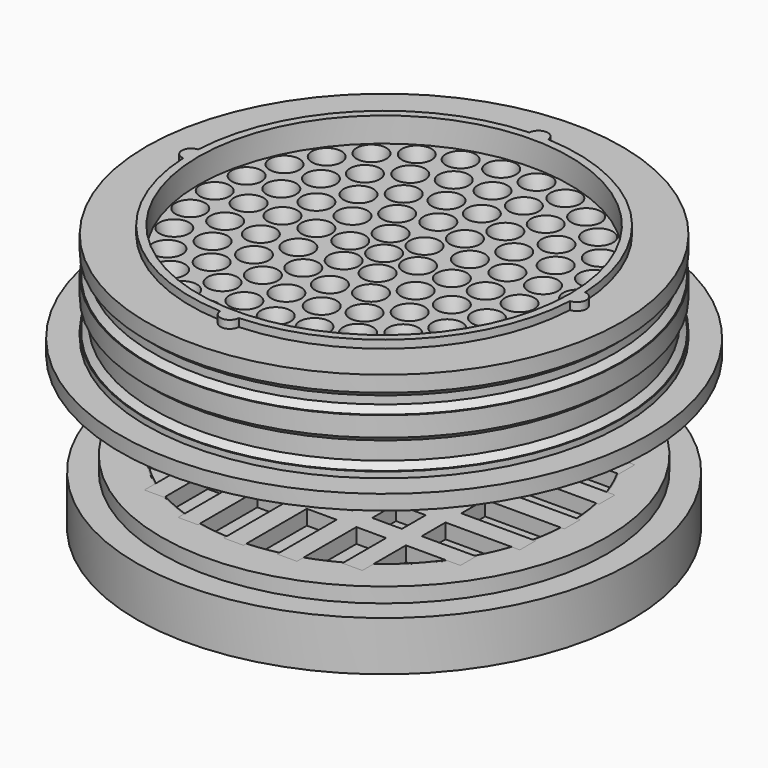
from build123d import *

# Parameters (mm, degrees)
CYLINDER072_R          = 47.3
CYLINDER072_DEPTH      = 3
CYLINDER071_R          = 53.3
CYLINDER071_DEPTH      = 3
CYLINDER073_R          = 2
CYLINDER073_DEPTH      = 7.8
CYLINDER058_R          = 2
CYLINDER058_DEPTH      = 7.8
CYLINDER057_R          = 2
CYLINDER057_DEPTH      = 7.8
CYLINDER054_R          = 2
CYLINDER054_DEPTH      = 7.8
CYLINDER056_R          = 37.6
CYLINDER056_DEPTH      = 13.4
CYLINDER055_R          = 40
CYLINDER055_DEPTH      = 13.4
CYLINDER019_R          = 68.3
CYLINDER019_DEPTH      = 5
CYLINDER009_R          = 40
CYLINDER009_DEPTH      = 27.4
CYLINDER008_R          = 45
CYLINDER008_DEPTH      = 23.4
CYLINDER005_R          = 45
CYLINDER005_DEPTH      = 25
CYLINDER_R             = 48
CYLINDER_DEPTH         = 3.2
CYLINDER003_R          = 46.6
CYLINDER003_DEPTH      = 6
CYLINDER001_R          = 46.6
CYLINDER001_DEPTH      = 4
CYLINDER002_R          = 48
CYLINDER002_DEPTH      = 4
CYLINDER004_R          = 48
CYLINDER004_DEPTH      = 1.2
CYLINDER007_R          = 45
CYLINDER007_DEPTH      = 25
CYLINDER006_R          = 51.3
CYLINDER006_DEPTH      = 5
CHAMFER_SIZE           = 1.2
CHAMFER001_SIZE        = 1.2
CYLINDER075_R          = 37.5
CYLINDER075_DEPTH      = 12
CYLINDER070_R          = 1.9
CYLINDER070_DEPTH      = 7.8
CYLINDER068_R          = 1.9
CYLINDER068_DEPTH      = 7.8
CYLINDER062_R          = 1.9
CYLINDER062_DEPTH      = 7.8
CYLINDER074_R          = 1.9
CYLINDER074_DEPTH      = 7.8
CYLINDER061_R          = 68.3
CYLINDER061_DEPTH      = 5
CYLINDER066_R          = 37.5
CYLINDER066_DEPTH      = 32
CYLINDER064_R          = 37.5
CYLINDER064_DEPTH      = 5
CYLINDER069_R          = 39.1
CYLINDER069_DEPTH      = 5
CYLINDER085_R          = 37.5
CYLINDER085_DEPTH      = 5
CYLINDER088_R          = 45
CYLINDER088_DEPTH      = 5
CYLINDER089_R          = 50
CYLINDER089_DEPTH      = 10
BOX037_W               = 66
BOX037_H               = 4
BOX037_DEPTH           = 5
BOX034_W               = 66
BOX034_H               = 4
BOX034_DEPTH           = 5
BOX036_W               = 74
BOX036_H               = 4
BOX036_DEPTH           = 5
BOX038_W               = 74
BOX038_H               = 4
BOX038_DEPTH           = 5
BOX035_W               = 74
BOX035_H               = 4
BOX035_DEPTH           = 5
BOX033_W               = 66
BOX033_H               = 4
BOX033_DEPTH           = 5
BOX039_W               = 76
BOX039_H               = 4
BOX039_DEPTH           = 5
BOX030_W               = 66
BOX030_H               = 4
BOX030_DEPTH           = 5
BOX031_W               = 76
BOX031_H               = 4
BOX031_DEPTH           = 5
BOX032_W               = 74
BOX032_H               = 4
BOX032_DEPTH           = 5
CYLINDER086_R          = 37.3
CYLINDER086_DEPTH      = 5
CYLINDER087_R          = 37.5
CYLINDER087_DEPTH      = 5
CYLINDER063_R          = 50
CYLINDER063_DEPTH      = 10
CYLINDER067_R          = 37.5
CYLINDER067_DEPTH      = 5
CYLINDER059_R          = 45
CYLINDER059_DEPTH      = 5
BOX024_W               = 66
BOX024_H               = 4
BOX024_DEPTH           = 5
BOX028_W               = 66
BOX028_H               = 4
BOX028_DEPTH           = 5
BOX022_W               = 74
BOX022_H               = 4
BOX022_DEPTH           = 5
BOX020_W               = 74
BOX020_H               = 4
BOX020_DEPTH           = 5
BOX025_W               = 74
BOX025_H               = 4
BOX025_DEPTH           = 5
BOX027_W               = 66
BOX027_H               = 4
BOX027_DEPTH           = 5
BOX026_W               = 76
BOX026_H               = 4
BOX026_DEPTH           = 5
BOX021_W               = 66
BOX021_H               = 4
BOX021_DEPTH           = 5
BOX029_W               = 76
BOX029_H               = 4
BOX029_DEPTH           = 5
BOX023_W               = 74
BOX023_H               = 4
BOX023_DEPTH           = 5
CYLINDER065_R          = 37.3
CYLINDER065_DEPTH      = 5
CYLINDER060_R          = 37.5
CYLINDER060_DEPTH      = 5
CYLINDER077_R          = 37.5
CYLINDER077_DEPTH      = 12
CYLINDER081_R          = 1.9
CYLINDER081_DEPTH      = 7.8
CYLINDER076_R          = 1.9
CYLINDER076_DEPTH      = 7.8
CYLINDER079_R          = 1.9
CYLINDER079_DEPTH      = 7.8
CYLINDER084_R          = 1.9
CYLINDER084_DEPTH      = 7.8
CYLINDER078_R          = 68.3
CYLINDER078_DEPTH      = 5
CYLINDER082_R          = 37.5
CYLINDER082_DEPTH      = 32
CYLINDER083_R          = 37.5
CYLINDER083_DEPTH      = 5
CYLINDER080_R          = 39.1
CYLINDER080_DEPTH      = 5
CYLINDER100_R          = 2.17
CYLINDER100_DEPTH      = 10
ARRAY_COUNT            = 6
CYLINDER103_R          = 2.17
CYLINDER103_DEPTH      = 10
ARRAY003_COUNT         = 24
CYLINDER102_R          = 2.17
CYLINDER102_DEPTH      = 10
ARRAY001_COUNT         = 12
CYLINDER101_R          = 2.17
CYLINDER101_DEPTH      = 10
ARRAY002_COUNT         = 18
CYLINDER099_R          = 2.17
CYLINDER099_DEPTH      = 10
CYLINDER104_R          = 2.17
CYLINDER104_DEPTH      = 10
ARRAY004_COUNT         = 30
CYLINDER105_R          = 38
CYLINDER105_DEPTH      = 3
CYLINDER094_R          = 37.5
CYLINDER094_DEPTH      = 12
CYLINDER091_R          = 1.9
CYLINDER091_DEPTH      = 7.8
CYLINDER096_R          = 1.9
CYLINDER096_DEPTH      = 7.8
CYLINDER098_R          = 1.9
CYLINDER098_DEPTH      = 7.8
CYLINDER097_R          = 1.9
CYLINDER097_DEPTH      = 7.8
CYLINDER095_R          = 68.3
CYLINDER095_DEPTH      = 5
CYLINDER090_R          = 37.5
CYLINDER090_DEPTH      = 32
CYLINDER092_R          = 37.5
CYLINDER092_DEPTH      = 5
CYLINDER093_R          = 39.1
CYLINDER093_DEPTH      = 5
CYLINDER115_R          = 37.5
CYLINDER115_DEPTH      = 12
CYLINDER109_R          = 1.9
CYLINDER109_DEPTH      = 7.8
CYLINDER112_R          = 1.9
CYLINDER112_DEPTH      = 7.8
CYLINDER110_R          = 1.9
CYLINDER110_DEPTH      = 7.8
CYLINDER114_R          = 1.9
CYLINDER114_DEPTH      = 7.8
CYLINDER111_R          = 68.3
CYLINDER111_DEPTH      = 5
CYLINDER107_R          = 37.5
CYLINDER107_DEPTH      = 32
CYLINDER108_R          = 37.5
CYLINDER108_DEPTH      = 5
CYLINDER113_R          = 39.1
CYLINDER113_DEPTH      = 5
ARRAY005_COUNT         = 6
ARRAY006_COUNT         = 12
ARRAY007_COUNT         = 18
ARRAY008_COUNT         = 24
ARRAY009_COUNT         = 30
CYLINDER106_R          = 38
CYLINDER106_DEPTH      = 3
CUT053_PLACEMENT_ANGLE = 180


with BuildPart() as cylinder072:
    # Cylinder072 → Cylinder072 (new body)
    with BuildSketch(Plane.XY):
        Circle(CYLINDER072_R)
    extrude(amount=CYLINDER072_DEPTH)


with BuildPart() as obj1:
    # Cylinder071 → Cylinder071 (new body)
    with BuildSketch(Plane.XY):
        Circle(CYLINDER071_R)
    extrude(amount=CYLINDER071_DEPTH)

    # Cut037: cut Cylinder072
    add(cylinder072.part, mode=Mode.SUBTRACT)


with BuildPart() as obj1_1:
    # Cut037 placement: moved
    add(obj1.part.moved(Location((0, 0, -18.2))))


with BuildPart() as cylinder073:
    # Cylinder073 → Cylinder073 (new body)
    with BuildSketch(Plane(origin=(0, -39.8, -18), x_dir=(1, 0, 0), z_dir=(0, 0, 1))):
        Circle(CYLINDER073_R)
    extrude(amount=CYLINDER073_DEPTH)


with BuildPart() as cylinder058:
    # Cylinder058 → Cylinder058 (new body)
    with BuildSketch(Plane(origin=(-39.8, 0, -18), x_dir=(1, 0, 0), z_dir=(0, 0, 1))):
        Circle(CYLINDER058_R)
    extrude(amount=CYLINDER058_DEPTH)


with BuildPart() as cylinder057:
    # Cylinder057 → Cylinder057 (new body)
    with BuildSketch(Plane(origin=(39.8, 0, -18), x_dir=(1, 0, 0), z_dir=(0, 0, 1))):
        Circle(CYLINDER057_R)
    extrude(amount=CYLINDER057_DEPTH)


with BuildPart() as cylinder054:
    # Cylinder054 → Cylinder054 (new body)
    with BuildSketch(Plane(origin=(0, 39.8, -18), x_dir=(1, 0, 0), z_dir=(0, 0, 1))):
        Circle(CYLINDER054_R)
    extrude(amount=CYLINDER054_DEPTH)


with BuildPart() as cylinder056:
    # Cylinder056 → Cylinder056 (new body)
    with BuildSketch(Plane.XY.offset(-10.2)):
        Circle(CYLINDER056_R)
    extrude(amount=CYLINDER056_DEPTH)


with BuildPart() as cut026:
    # Cylinder055 → Cylinder055 (new body)
    with BuildSketch(Plane.XY.offset(-10.2)):
        Circle(CYLINDER055_R)
    extrude(amount=CYLINDER055_DEPTH)

    # Cut026: cut Cylinder056
    add(cylinder056.part, mode=Mode.SUBTRACT)


with BuildPart() as obj2:
    # Cylinder019 → Cylinder019 (new body)
    with BuildSketch(Plane.XY.offset(-23.2)):
        Circle(CYLINDER019_R)
    extrude(amount=CYLINDER019_DEPTH)


with BuildPart() as cone:
    # Cone → Cone (revolve)
    with BuildSketch(Plane(origin=(0, 0, -15.2), x_dir=(-1, 0, 0), z_dir=(0, -1, 0))):
        Polygon((0, 0), (40, 0), (45, 5), (0, 5), align=None)
    revolve(axis=Axis((0, 0, -15.2), (0, 0, -1)))


with BuildPart() as fusion002:
    # Cylinder009 → Cylinder009 (new body)
    with BuildSketch(Plane.XY.offset(-17)):
        Circle(CYLINDER009_R)
    extrude(amount=CYLINDER009_DEPTH)

    # Fusion002: union Cone
    add(cone.part)


with BuildPart() as cut002:
    # Cylinder008 → Cylinder008 (new body)
    with BuildSketch(Plane.XY.offset(-20.2)):
        Circle(CYLINDER008_R)
    extrude(amount=CYLINDER008_DEPTH)

    # Cut002: cut Fusion002
    add(fusion002.part, mode=Mode.SUBTRACT)


with BuildPart() as cylinder005:
    # Cylinder005 → Cylinder005 (new body)
    with BuildSketch(Plane.XY.offset(-18)):
        Circle(CYLINDER005_R)
    extrude(amount=CYLINDER005_DEPTH)


with BuildPart() as cylinder:
    # Cylinder → Cylinder (new body)
    with BuildSketch(Plane.XY):
        Circle(CYLINDER_R)
    extrude(amount=CYLINDER_DEPTH)


with BuildPart() as cylinder003:
    # Cylinder003 → Cylinder003 (new body)
    with BuildSketch(Plane.XY.offset(-14)):
        Circle(CYLINDER003_R)
    extrude(amount=CYLINDER003_DEPTH)


with BuildPart() as cylinder001:
    # Cylinder001 → Cylinder001 (new body)
    with BuildSketch(Plane.XY.offset(-4)):
        Circle(CYLINDER001_R)
    extrude(amount=CYLINDER001_DEPTH)


with BuildPart() as cylinder002:
    # Cylinder002 → Cylinder002 (new body)
    with BuildSketch(Plane.XY.offset(-8)):
        Circle(CYLINDER002_R)
    extrude(amount=CYLINDER002_DEPTH)


with BuildPart() as cut:
    # Cylinder004 → Cylinder004 (new body)
    with BuildSketch(Plane.XY.offset(-15.2)):
        Circle(CYLINDER004_R)
    extrude(amount=CYLINDER004_DEPTH)

    # Fusion: union Cylinder, Cylinder003, Cylinder001, Cylinder002
    add(cylinder.part)
    add(cylinder003.part)
    add(cylinder001.part)
    add(cylinder002.part)

    # Cut: cut Cylinder005
    add(cylinder005.part, mode=Mode.SUBTRACT)


with BuildPart() as cylinder007:
    # Cylinder007 → Cylinder007 (new body)
    with BuildSketch(Plane.XY.offset(-23)):
        Circle(CYLINDER007_R)
    extrude(amount=CYLINDER007_DEPTH)


with BuildPart() as obj3:
    # Cylinder006 → Cylinder006 (new body)
    with BuildSketch(Plane.XY.offset(-20.2)):
        Circle(CYLINDER006_R)
    extrude(amount=CYLINDER006_DEPTH)

    # Cut001: cut Cylinder007
    add(cylinder007.part, mode=Mode.SUBTRACT)

    # Fusion001: union Cut
    add(cut.part)

    # Fusion003: union Cut002
    add(cut002.part)

    # Chamfer
    chamfer_edges = [obj3.edges().sort_by_distance(p)[0] for p in [
        (-46.6, 0, -14),
        (-46.6, 0, -4),
    ]]
    chamfer(chamfer_edges, length=CHAMFER_SIZE)

    # Chamfer001
    chamfer001_edges = [obj3.edges().sort_by_distance(p)[0] for p in [
        (-46.6, 0, -8),
        (-46.6, 0, 0),
    ]]
    chamfer(chamfer001_edges, length=CHAMFER001_SIZE)

    # Cut009: cut obj2
    add(obj2.part, mode=Mode.SUBTRACT)

    # Fusion019: union Cut026
    add(cut026.part)

    # Cut027: cut Cylinder054
    add(cylinder054.part, mode=Mode.SUBTRACT)

    # Cut028: cut Cylinder057
    add(cylinder057.part, mode=Mode.SUBTRACT)

    # Cut029: cut Cylinder058
    add(cylinder058.part, mode=Mode.SUBTRACT)

    # Cut038: cut Cylinder073
    add(cylinder073.part, mode=Mode.SUBTRACT)

    # Fusion025: union obj1
    add(obj1_1.part)


with BuildPart() as cylinder075:
    # Cylinder075 → Cylinder075 (new body)
    with BuildSketch(Plane.XY.offset(-20)):
        Circle(CYLINDER075_R)
    extrude(amount=CYLINDER075_DEPTH)


with BuildPart() as cylinder070:
    # Cylinder070 → Cylinder070 (new body)
    with BuildSketch(Plane(origin=(38.95, 0, -18), x_dir=(1, 0, 0), z_dir=(0, 0, 1))):
        Circle(CYLINDER070_R)
    extrude(amount=CYLINDER070_DEPTH)


with BuildPart() as cylinder068:
    # Cylinder068 → Cylinder068 (new body)
    with BuildSketch(Plane(origin=(-38.95, 0, -18), x_dir=(1, 0, 0), z_dir=(0, 0, 1))):
        Circle(CYLINDER068_R)
    extrude(amount=CYLINDER068_DEPTH)


with BuildPart() as cylinder062:
    # Cylinder062 → Cylinder062 (new body)
    with BuildSketch(Plane(origin=(0, 38.95, -18), x_dir=(1, 0, 0), z_dir=(0, 0, 1))):
        Circle(CYLINDER062_R)
    extrude(amount=CYLINDER062_DEPTH)


with BuildPart() as cylinder074:
    # Cylinder074 → Cylinder074 (new body)
    with BuildSketch(Plane(origin=(0, -38.95, -18), x_dir=(1, 0, 0), z_dir=(0, 0, 1))):
        Circle(CYLINDER074_R)
    extrude(amount=CYLINDER074_DEPTH)


with BuildPart() as obj4:
    # Cylinder061 → Cylinder061 (new body)
    with BuildSketch(Plane.XY.offset(-23.2)):
        Circle(CYLINDER061_R)
    extrude(amount=CYLINDER061_DEPTH)


with BuildPart() as cylinder066:
    # Cylinder066 → Cylinder066 (new body)
    with BuildSketch(Plane.XY.offset(-39)):
        Circle(CYLINDER066_R)
    extrude(amount=CYLINDER066_DEPTH)


with BuildPart() as cono_superior:
    # Cone004 → Cone004 (revolve)
    with BuildSketch(Plane(origin=(0, 0, -15.2), x_dir=(-1, 0, 0), z_dir=(0, -1, 0))):
        Polygon((0, 0), (39.1, 0), (44, 5), (0, 5), align=None)
    revolve(axis=Axis((0, 0, -15.2), (0, 0, -1)))

    # Cut030: cut Cylinder066
    add(cylinder066.part, mode=Mode.SUBTRACT)


with BuildPart() as cylinder064:
    # Cylinder064 → Cylinder064 (new body)
    with BuildSketch(Plane.XY):
        Circle(CYLINDER064_R)
    extrude(amount=CYLINDER064_DEPTH)


with BuildPart() as obj5:
    # Cylinder069 → Cylinder069 (new body)
    with BuildSketch(Plane.XY):
        Circle(CYLINDER069_R)
    extrude(amount=CYLINDER069_DEPTH)

    # Cut033: cut Cylinder064
    add(cylinder064.part, mode=Mode.SUBTRACT)


with BuildPart() as obj5_1:
    # Cut033 placement: moved
    add(obj5.part.moved(Location((0, 0, -15.2))))

    # Fusion020: union cono_superior
    add(cono_superior.part)

    # Cut031: cut obj4
    add(obj4.part, mode=Mode.SUBTRACT)

    # Fusion026: union Cylinder070, Cylinder068, Cylinder062, Cylinder074
    add(cylinder070.part)
    add(cylinder068.part)
    add(cylinder062.part)
    add(cylinder074.part)

    # Cut039: cut Cylinder075
    add(cylinder075.part, mode=Mode.SUBTRACT)


with BuildPart() as cylinder085:
    # Cylinder085 → Cylinder085 (new body)
    with BuildSketch(Plane.XY.offset(-41)):
        Circle(CYLINDER085_R)
    extrude(amount=CYLINDER085_DEPTH)


with BuildPart() as cut047:
    # Cylinder088 → Cylinder088 (new body)
    with BuildSketch(Plane.XY.offset(-41)):
        Circle(CYLINDER088_R)
    extrude(amount=CYLINDER088_DEPTH)

    # Cut047: cut Cylinder085
    add(cylinder085.part, mode=Mode.SUBTRACT)


with BuildPart() as cylinder089:
    # Cylinder089 → Cylinder089 (new body)
    with BuildSketch(Plane.XY.offset(-49)):
        Circle(CYLINDER089_R)
    extrude(amount=CYLINDER089_DEPTH)


with BuildPart() as cube037:
    # Box037 → Box037 (new body)
    with BuildSketch(Plane(origin=(-18, -33, -41), x_dir=(0, 1, 0), z_dir=(0, 0, 1))):
        with Locations((33, 2)):
            Rectangle(BOX037_W, BOX037_H)
    extrude(amount=BOX037_DEPTH)


with BuildPart() as cube034:
    # Box034 → Box034 (new body)
    with BuildSketch(Plane(origin=(22, -33, -41), x_dir=(0, 1, 0), z_dir=(0, 0, 1))):
        with Locations((33, 2)):
            Rectangle(BOX034_W, BOX034_H)
    extrude(amount=BOX034_DEPTH)


with BuildPart() as cube036:
    # Box036 → Box036 (new body)
    with BuildSketch(Plane(origin=(-8, -37, -41), x_dir=(0, 1, 0), z_dir=(0, 0, 1))):
        with Locations((37, 2)):
            Rectangle(BOX036_W, BOX036_H)
    extrude(amount=BOX036_DEPTH)


with BuildPart() as cube038:
    # Box038 → Box038 (new body)
    with BuildSketch(Plane(origin=(-37, 8, -41), x_dir=(1, 0, 0), z_dir=(0, 0, 1))):
        with Locations((37, 2)):
            Rectangle(BOX038_W, BOX038_H)
    extrude(amount=BOX038_DEPTH)


with BuildPart() as cube035:
    # Box035 → Box035 (new body)
    with BuildSketch(Plane(origin=(-37, -12, -41), x_dir=(1, 0, 0), z_dir=(0, 0, 1))):
        with Locations((37, 2)):
            Rectangle(BOX035_W, BOX035_H)
    extrude(amount=BOX035_DEPTH)


with BuildPart() as cube033:
    # Box033 → Box033 (new body)
    with BuildSketch(Plane(origin=(-33, -22, -41), x_dir=(1, 0, 0), z_dir=(0, 0, 1))):
        with Locations((33, 2)):
            Rectangle(BOX033_W, BOX033_H)
    extrude(amount=BOX033_DEPTH)


with BuildPart() as cube039:
    # Box039 → Box039 (new body)
    with BuildSketch(Plane(origin=(-38, -2, -41), x_dir=(1, 0, 0), z_dir=(0, 0, 1))):
        with Locations((38, 2)):
            Rectangle(BOX039_W, BOX039_H)
    extrude(amount=BOX039_DEPTH)


with BuildPart() as cube030:
    # Box030 → Box030 (new body)
    with BuildSketch(Plane(origin=(-33, 18, -41), x_dir=(1, 0, 0), z_dir=(0, 0, 1))):
        with Locations((33, 2)):
            Rectangle(BOX030_W, BOX030_H)
    extrude(amount=BOX030_DEPTH)


with BuildPart() as cube031:
    # Box031 → Box031 (new body)
    with BuildSketch(Plane(origin=(2, -38, -41), x_dir=(0, 1, 0), z_dir=(0, 0, 1))):
        with Locations((38, 2)):
            Rectangle(BOX031_W, BOX031_H)
    extrude(amount=BOX031_DEPTH)


with BuildPart() as cube032:
    # Box032 → Box032 (new body)
    with BuildSketch(Plane(origin=(12, -37, -41), x_dir=(0, 1, 0), z_dir=(0, 0, 1))):
        with Locations((37, 2)):
            Rectangle(BOX032_W, BOX032_H)
    extrude(amount=BOX032_DEPTH)


with BuildPart() as cylinder086:
    # Cylinder086 → Cylinder086 (new body)
    with BuildSketch(Plane.XY.offset(-41)):
        Circle(CYLINDER086_R)
    extrude(amount=CYLINDER086_DEPTH)


with BuildPart() as fusion029:
    # Cylinder087 → Cylinder087 (new body)
    with BuildSketch(Plane.XY.offset(-41)):
        Circle(CYLINDER087_R)
    extrude(amount=CYLINDER087_DEPTH)

    # Cut044: cut Cylinder086
    add(cylinder086.part, mode=Mode.SUBTRACT)

    # Fusion029: union Cube037, Cube034, Cube036, Cube038, Cube035, Cube033, Cube039, Cube030, Cube031, Cube032
    add(cube037.part)
    add(cube034.part)
    add(cube036.part)
    add(cube038.part)
    add(cube035.part)
    add(cube033.part)
    add(cube039.part)
    add(cube030.part)
    add(cube031.part)
    add(cube032.part)


with BuildPart() as cylinder063:
    # Cylinder063 → Cylinder063 (new body)
    with BuildSketch(Plane.XY.offset(-49)):
        Circle(CYLINDER063_R)
    extrude(amount=CYLINDER063_DEPTH)


with BuildPart() as cylinder067:
    # Cylinder067 → Cylinder067 (new body)
    with BuildSketch(Plane.XY.offset(-41)):
        Circle(CYLINDER067_R)
    extrude(amount=CYLINDER067_DEPTH)


with BuildPart() as cut032:
    # Cylinder059 → Cylinder059 (new body)
    with BuildSketch(Plane.XY.offset(-41)):
        Circle(CYLINDER059_R)
    extrude(amount=CYLINDER059_DEPTH)

    # Cut032: cut Cylinder067
    add(cylinder067.part, mode=Mode.SUBTRACT)


with BuildPart() as cube024:
    # Box024 → Box024 (new body)
    with BuildSketch(Plane(origin=(-18, -33, -41), x_dir=(0, 1, 0), z_dir=(0, 0, 1))):
        with Locations((33, 2)):
            Rectangle(BOX024_W, BOX024_H)
    extrude(amount=BOX024_DEPTH)


with BuildPart() as cube028:
    # Box028 → Box028 (new body)
    with BuildSketch(Plane(origin=(22, -33, -41), x_dir=(0, 1, 0), z_dir=(0, 0, 1))):
        with Locations((33, 2)):
            Rectangle(BOX028_W, BOX028_H)
    extrude(amount=BOX028_DEPTH)


with BuildPart() as cube022:
    # Box022 → Box022 (new body)
    with BuildSketch(Plane(origin=(-8, -37, -41), x_dir=(0, 1, 0), z_dir=(0, 0, 1))):
        with Locations((37, 2)):
            Rectangle(BOX022_W, BOX022_H)
    extrude(amount=BOX022_DEPTH)


with BuildPart() as cube020:
    # Box020 → Box020 (new body)
    with BuildSketch(Plane(origin=(-37, 8, -41), x_dir=(1, 0, 0), z_dir=(0, 0, 1))):
        with Locations((37, 2)):
            Rectangle(BOX020_W, BOX020_H)
    extrude(amount=BOX020_DEPTH)


with BuildPart() as cube025:
    # Box025 → Box025 (new body)
    with BuildSketch(Plane(origin=(-37, -12, -41), x_dir=(1, 0, 0), z_dir=(0, 0, 1))):
        with Locations((37, 2)):
            Rectangle(BOX025_W, BOX025_H)
    extrude(amount=BOX025_DEPTH)


with BuildPart() as cube027:
    # Box027 → Box027 (new body)
    with BuildSketch(Plane(origin=(-33, -22, -41), x_dir=(1, 0, 0), z_dir=(0, 0, 1))):
        with Locations((33, 2)):
            Rectangle(BOX027_W, BOX027_H)
    extrude(amount=BOX027_DEPTH)


with BuildPart() as cube026:
    # Box026 → Box026 (new body)
    with BuildSketch(Plane(origin=(-38, -2, -41), x_dir=(1, 0, 0), z_dir=(0, 0, 1))):
        with Locations((38, 2)):
            Rectangle(BOX026_W, BOX026_H)
    extrude(amount=BOX026_DEPTH)


with BuildPart() as cube021:
    # Box021 → Box021 (new body)
    with BuildSketch(Plane(origin=(-33, 18, -41), x_dir=(1, 0, 0), z_dir=(0, 0, 1))):
        with Locations((33, 2)):
            Rectangle(BOX021_W, BOX021_H)
    extrude(amount=BOX021_DEPTH)


with BuildPart() as cube029:
    # Box029 → Box029 (new body)
    with BuildSketch(Plane(origin=(2, -38, -41), x_dir=(0, 1, 0), z_dir=(0, 0, 1))):
        with Locations((38, 2)):
            Rectangle(BOX029_W, BOX029_H)
    extrude(amount=BOX029_DEPTH)


with BuildPart() as cube023:
    # Box023 → Box023 (new body)
    with BuildSketch(Plane(origin=(12, -37, -41), x_dir=(0, 1, 0), z_dir=(0, 0, 1))):
        with Locations((37, 2)):
            Rectangle(BOX023_W, BOX023_H)
    extrude(amount=BOX023_DEPTH)


with BuildPart() as cylinder065:
    # Cylinder065 → Cylinder065 (new body)
    with BuildSketch(Plane.XY.offset(-41)):
        Circle(CYLINDER065_R)
    extrude(amount=CYLINDER065_DEPTH)


with BuildPart() as obj6:
    # Cylinder060 → Cylinder060 (new body)
    with BuildSketch(Plane.XY.offset(-41)):
        Circle(CYLINDER060_R)
    extrude(amount=CYLINDER060_DEPTH)

    # Cut035: cut Cylinder065
    add(cylinder065.part, mode=Mode.SUBTRACT)

    # Fusion022: union Cube024, Cube028, Cube022, Cube020, Cube025, Cube027, Cube026, Cube021, Cube029, Cube023
    add(cube024.part)
    add(cube028.part)
    add(cube022.part)
    add(cube020.part)
    add(cube025.part)
    add(cube027.part)
    add(cube026.part)
    add(cube021.part)
    add(cube029.part)
    add(cube023.part)

    # Cut036: cut Cut032
    add(cut032.part, mode=Mode.SUBTRACT)

    # Cut034: cut Cylinder063
    add(cylinder063.part, mode=Mode.SUBTRACT)


with BuildPart() as obj6_1:
    # Cut034 placement: moved
    add(obj6.part.moved(Location((0, 0, 20.8))))


with BuildPart() as cylinder077:
    # Cylinder077 → Cylinder077 (new body)
    with BuildSketch(Plane.XY.offset(-20)):
        Circle(CYLINDER077_R)
    extrude(amount=CYLINDER077_DEPTH)


with BuildPart() as cylinder081:
    # Cylinder081 → Cylinder081 (new body)
    with BuildSketch(Plane(origin=(38.95, 0, -18), x_dir=(1, 0, 0), z_dir=(0, 0, 1))):
        Circle(CYLINDER081_R)
    extrude(amount=CYLINDER081_DEPTH)


with BuildPart() as cylinder076:
    # Cylinder076 → Cylinder076 (new body)
    with BuildSketch(Plane(origin=(-38.95, 0, -18), x_dir=(1, 0, 0), z_dir=(0, 0, 1))):
        Circle(CYLINDER076_R)
    extrude(amount=CYLINDER076_DEPTH)


with BuildPart() as cylinder079:
    # Cylinder079 → Cylinder079 (new body)
    with BuildSketch(Plane(origin=(0, 38.95, -18), x_dir=(1, 0, 0), z_dir=(0, 0, 1))):
        Circle(CYLINDER079_R)
    extrude(amount=CYLINDER079_DEPTH)


with BuildPart() as cylinder084:
    # Cylinder084 → Cylinder084 (new body)
    with BuildSketch(Plane(origin=(0, -38.95, -18), x_dir=(1, 0, 0), z_dir=(0, 0, 1))):
        Circle(CYLINDER084_R)
    extrude(amount=CYLINDER084_DEPTH)


with BuildPart() as obj7:
    # Cylinder078 → Cylinder078 (new body)
    with BuildSketch(Plane.XY.offset(-23.2)):
        Circle(CYLINDER078_R)
    extrude(amount=CYLINDER078_DEPTH)


with BuildPart() as cylinder082:
    # Cylinder082 → Cylinder082 (new body)
    with BuildSketch(Plane.XY.offset(-39)):
        Circle(CYLINDER082_R)
    extrude(amount=CYLINDER082_DEPTH)


with BuildPart() as cono_superior001:
    # Cone005 → Cone005 (revolve)
    with BuildSketch(Plane(origin=(0, 0, -15.2), x_dir=(-1, 0, 0), z_dir=(0, -1, 0))):
        Polygon((0, 0), (39.1, 0), (44, 5), (0, 5), align=None)
    revolve(axis=Axis((0, 0, -15.2), (0, 0, -1)))

    # Cut042: cut Cylinder082
    add(cylinder082.part, mode=Mode.SUBTRACT)


with BuildPart() as cylinder083:
    # Cylinder083 → Cylinder083 (new body)
    with BuildSketch(Plane.XY):
        Circle(CYLINDER083_R)
    extrude(amount=CYLINDER083_DEPTH)


with BuildPart() as obj8:
    # Cylinder080 → Cylinder080 (new body)
    with BuildSketch(Plane.XY):
        Circle(CYLINDER080_R)
    extrude(amount=CYLINDER080_DEPTH)

    # Cut040: cut Cylinder083
    add(cylinder083.part, mode=Mode.SUBTRACT)


with BuildPart() as obj8_1:
    # Cut040 placement: moved
    add(obj8.part.moved(Location((0, 0, -15.2))))

    # Fusion027: union cono_superior001
    add(cono_superior001.part)

    # Cut041: cut obj7
    add(obj7.part, mode=Mode.SUBTRACT)

    # Fusion028: union Cylinder081, Cylinder076, Cylinder079, Cylinder084
    add(cylinder081.part)
    add(cylinder076.part)
    add(cylinder079.part)
    add(cylinder084.part)

    # Cut043: cut Cylinder077
    add(cylinder077.part, mode=Mode.SUBTRACT)

    # Fusion030: union obj6
    add(obj6_1.part)


with BuildPart() as array:
    # Cylinder100 → Cylinder100 (new body)
    with BuildSketch(Plane(origin=(-6.84, 0, -44), x_dir=(1, 0, 0), z_dir=(0, 0, 1))):
        Circle(CYLINDER100_R)
    extrude(amount=CYLINDER100_DEPTH)

    # Array: Array ×6 about axis
    array_axis = Axis((0, 0, 0), (0, 0, 1))


with BuildPart() as array_1:
    add(array.part)
    for i in range(1, ARRAY_COUNT):
        add(array.part.rotate(array_axis, i * 360 / ARRAY_COUNT))


with BuildPart() as array003:
    # Cylinder103 → Cylinder103 (new body)
    with BuildSketch(Plane(origin=(-27.36, 0, -44), x_dir=(1, 0, 0), z_dir=(0, 0, 1))):
        Circle(CYLINDER103_R)
    extrude(amount=CYLINDER103_DEPTH)

    # Array003: Array003 ×24 about axis
    array003_axis = Axis((0, 0, 0), (0, 0, 1))


with BuildPart() as array003_1:
    add(array003.part)
    for i in range(1, ARRAY003_COUNT):
        add(array003.part.rotate(array003_axis, i * 360 / ARRAY003_COUNT))


with BuildPart() as array001:
    # Cylinder102 → Cylinder102 (new body)
    with BuildSketch(Plane(origin=(-13.68, 0, -44), x_dir=(1, 0, 0), z_dir=(0, 0, 1))):
        Circle(CYLINDER102_R)
    extrude(amount=CYLINDER102_DEPTH)

    # Array001: Array001 ×12 about axis
    array001_axis = Axis((0, 0, 0), (0, 0, 1))


with BuildPart() as array001_1:
    add(array001.part)
    for i in range(1, ARRAY001_COUNT):
        add(array001.part.rotate(array001_axis, i * 360 / ARRAY001_COUNT))


with BuildPart() as array002:
    # Cylinder101 → Cylinder101 (new body)
    with BuildSketch(Plane(origin=(-20.52, 0, -44), x_dir=(1, 0, 0), z_dir=(0, 0, 1))):
        Circle(CYLINDER101_R)
    extrude(amount=CYLINDER101_DEPTH)

    # Array002: Array002 ×18 about axis
    array002_axis = Axis((0, 0, 0), (0, 0, 1))


with BuildPart() as array002_1:
    add(array002.part)
    for i in range(1, ARRAY002_COUNT):
        add(array002.part.rotate(array002_axis, i * 360 / ARRAY002_COUNT))


with BuildPart() as cylinder099:
    # Cylinder099 → Cylinder099 (new body)
    with BuildSketch(Plane.XY.offset(-44)):
        Circle(CYLINDER099_R)
    extrude(amount=CYLINDER099_DEPTH)


with BuildPart() as fusion033:
    # Cylinder104 → Cylinder104 (new body)
    with BuildSketch(Plane(origin=(-34.2, 0, -44), x_dir=(1, 0, 0), z_dir=(0, 0, 1))):
        Circle(CYLINDER104_R)
    extrude(amount=CYLINDER104_DEPTH)

    # Array004: Fusion033 ×30 about axis
    array004_axis = Axis((0, 0, 0), (0, 0, 1))


with BuildPart() as fusion033_1:
    add(fusion033.part)
    for i in range(1, ARRAY004_COUNT):
        add(fusion033.part.rotate(array004_axis, i * 360 / ARRAY004_COUNT))

    # Fusion033: union Array, Array003, Array001, Array002, Cylinder099
    add(array_1.part)
    add(array003_1.part)
    add(array001_1.part)
    add(array002_1.part)
    add(cylinder099.part)


with BuildPart() as obj9:
    # Cylinder105 → Cylinder105 (new body)
    with BuildSketch(Plane.XY.offset(-41)):
        Circle(CYLINDER105_R)
    extrude(amount=CYLINDER105_DEPTH)

    # Cut052: cut Fusion033
    add(fusion033_1.part, mode=Mode.SUBTRACT)


with BuildPart() as obj9_1:
    # Cut052 placement: moved
    add(obj9.part.moved(Location((0, 0, 22.8))))


with BuildPart() as cylinder094:
    # Cylinder094 → Cylinder094 (new body)
    with BuildSketch(Plane.XY.offset(-20)):
        Circle(CYLINDER094_R)
    extrude(amount=CYLINDER094_DEPTH)


with BuildPart() as cylinder091:
    # Cylinder091 → Cylinder091 (new body)
    with BuildSketch(Plane(origin=(38.95, 0, -18), x_dir=(1, 0, 0), z_dir=(0, 0, 1))):
        Circle(CYLINDER091_R)
    extrude(amount=CYLINDER091_DEPTH)


with BuildPart() as cylinder096:
    # Cylinder096 → Cylinder096 (new body)
    with BuildSketch(Plane(origin=(-38.95, 0, -18), x_dir=(1, 0, 0), z_dir=(0, 0, 1))):
        Circle(CYLINDER096_R)
    extrude(amount=CYLINDER096_DEPTH)


with BuildPart() as cylinder098:
    # Cylinder098 → Cylinder098 (new body)
    with BuildSketch(Plane(origin=(0, 38.95, -18), x_dir=(1, 0, 0), z_dir=(0, 0, 1))):
        Circle(CYLINDER098_R)
    extrude(amount=CYLINDER098_DEPTH)


with BuildPart() as cylinder097:
    # Cylinder097 → Cylinder097 (new body)
    with BuildSketch(Plane(origin=(0, -38.95, -18), x_dir=(1, 0, 0), z_dir=(0, 0, 1))):
        Circle(CYLINDER097_R)
    extrude(amount=CYLINDER097_DEPTH)


with BuildPart() as obj10:
    # Cylinder095 → Cylinder095 (new body)
    with BuildSketch(Plane.XY.offset(-23.2)):
        Circle(CYLINDER095_R)
    extrude(amount=CYLINDER095_DEPTH)


with BuildPart() as cylinder090:
    # Cylinder090 → Cylinder090 (new body)
    with BuildSketch(Plane.XY.offset(-39)):
        Circle(CYLINDER090_R)
    extrude(amount=CYLINDER090_DEPTH)


with BuildPart() as cono_superior002:
    # Cone006 → Cone006 (revolve)
    with BuildSketch(Plane(origin=(0, 0, -15.2), x_dir=(-1, 0, 0), z_dir=(0, -1, 0))):
        Polygon((0, 0), (39.1, 0), (44, 5), (0, 5), align=None)
    revolve(axis=Axis((0, 0, -15.2), (0, 0, -1)))

    # Cut050: cut Cylinder090
    add(cylinder090.part, mode=Mode.SUBTRACT)


with BuildPart() as cylinder092:
    # Cylinder092 → Cylinder092 (new body)
    with BuildSketch(Plane.XY):
        Circle(CYLINDER092_R)
    extrude(amount=CYLINDER092_DEPTH)


with BuildPart() as obj11:
    # Cylinder093 → Cylinder093 (new body)
    with BuildSketch(Plane.XY):
        Circle(CYLINDER093_R)
    extrude(amount=CYLINDER093_DEPTH)

    # Cut049: cut Cylinder092
    add(cylinder092.part, mode=Mode.SUBTRACT)


with BuildPart() as obj11_1:
    # Cut049 placement: moved
    add(obj11.part.moved(Location((0, 0, -15.2))))

    # Fusion032: union cono_superior002
    add(cono_superior002.part)

    # Cut051: cut obj10
    add(obj10.part, mode=Mode.SUBTRACT)

    # Fusion031: union Cylinder091, Cylinder096, Cylinder098, Cylinder097
    add(cylinder091.part)
    add(cylinder096.part)
    add(cylinder098.part)
    add(cylinder097.part)

    # Cut048: cut Cylinder094
    add(cylinder094.part, mode=Mode.SUBTRACT)

    # Fusion034: union obj9
    add(obj9_1.part)


with BuildPart() as cylinder115:
    # Cylinder115 → Cylinder115 (new body)
    with BuildSketch(Plane.XY.offset(-20)):
        Circle(CYLINDER115_R)
    extrude(amount=CYLINDER115_DEPTH)


with BuildPart() as cylinder109:
    # Cylinder109 → Cylinder109 (new body)
    with BuildSketch(Plane(origin=(38.95, 0, -18), x_dir=(1, 0, 0), z_dir=(0, 0, 1))):
        Circle(CYLINDER109_R)
    extrude(amount=CYLINDER109_DEPTH)


with BuildPart() as cylinder112:
    # Cylinder112 → Cylinder112 (new body)
    with BuildSketch(Plane(origin=(-38.95, 0, -18), x_dir=(1, 0, 0), z_dir=(0, 0, 1))):
        Circle(CYLINDER112_R)
    extrude(amount=CYLINDER112_DEPTH)


with BuildPart() as cylinder110:
    # Cylinder110 → Cylinder110 (new body)
    with BuildSketch(Plane(origin=(0, 38.95, -18), x_dir=(1, 0, 0), z_dir=(0, 0, 1))):
        Circle(CYLINDER110_R)
    extrude(amount=CYLINDER110_DEPTH)


with BuildPart() as cylinder114:
    # Cylinder114 → Cylinder114 (new body)
    with BuildSketch(Plane(origin=(0, -38.95, -18), x_dir=(1, 0, 0), z_dir=(0, 0, 1))):
        Circle(CYLINDER114_R)
    extrude(amount=CYLINDER114_DEPTH)


with BuildPart() as obj12:
    # Cylinder111 → Cylinder111 (new body)
    with BuildSketch(Plane.XY.offset(-23.2)):
        Circle(CYLINDER111_R)
    extrude(amount=CYLINDER111_DEPTH)


with BuildPart() as cylinder107:
    # Cylinder107 → Cylinder107 (new body)
    with BuildSketch(Plane.XY.offset(-39)):
        Circle(CYLINDER107_R)
    extrude(amount=CYLINDER107_DEPTH)


with BuildPart() as cono_superior003:
    # Cone013 → Cone013 (revolve)
    with BuildSketch(Plane(origin=(0, 0, -15.2), x_dir=(-1, 0, 0), z_dir=(0, -1, 0))):
        Polygon((0, 0), (39.1, 0), (44, 5), (0, 5), align=None)
    revolve(axis=Axis((0, 0, -15.2), (0, 0, -1)))

    # Cut055: cut Cylinder107
    add(cylinder107.part, mode=Mode.SUBTRACT)


with BuildPart() as cylinder108:
    # Cylinder108 → Cylinder108 (new body)
    with BuildSketch(Plane.XY):
        Circle(CYLINDER108_R)
    extrude(amount=CYLINDER108_DEPTH)


with BuildPart() as obj13:
    # Cylinder113 → Cylinder113 (new body)
    with BuildSketch(Plane.XY):
        Circle(CYLINDER113_R)
    extrude(amount=CYLINDER113_DEPTH)

    # Cut057: cut Cylinder108
    add(cylinder108.part, mode=Mode.SUBTRACT)


with BuildPart() as obj13_1:
    # Cut057 placement: moved
    add(obj13.part.moved(Location((0, 0, -15.2))))

    # Fusion036: union cono_superior003
    add(cono_superior003.part)

    # Cut056: cut obj12
    add(obj12.part, mode=Mode.SUBTRACT)

    # Fusion037: union Cylinder109, Cylinder112, Cylinder110, Cylinder114
    add(cylinder109.part)
    add(cylinder112.part)
    add(cylinder110.part)
    add(cylinder114.part)

    # Cut054: cut Cylinder115
    add(cylinder115.part, mode=Mode.SUBTRACT)


with BuildPart() as obj13_2:
    # Cut054 placement: moved
    add(obj13_1.part.moved(Location((0, 0, 15))))


with BuildPart() as array005:
    # Cone008 → Cone008 (revolve)
    with BuildSketch(Plane(origin=(-6.84, 0, 0), x_dir=(1, 0, 0), z_dir=(0, -1, 0))):
        Polygon((0, 0), (3, 0), (2.17, 3), (0, 3), align=None)
    revolve(axis=Axis((-6.84, 0, 0), (0, 0, 1)))

    # Array005: Array005 ×6 about axis
    array005_axis = Axis((0, 0, 0), (0, 0, 1))


with BuildPart() as array005_1:
    add(array005.part)
    for i in range(1, ARRAY005_COUNT):
        add(array005.part.rotate(array005_axis, i * 360 / ARRAY005_COUNT))


with BuildPart() as array006:
    # Cone009 → Cone009 (revolve)
    with BuildSketch(Plane(origin=(-13.68, 0, 0), x_dir=(1, 0, 0), z_dir=(0, -1, 0))):
        Polygon((0, 0), (3, 0), (2.17, 3), (0, 3), align=None)
    revolve(axis=Axis((-13.68, 0, 0), (0, 0, 1)))

    # Array006: Array006 ×12 about axis
    array006_axis = Axis((0, 0, 0), (0, 0, 1))


with BuildPart() as array006_1:
    add(array006.part)
    for i in range(1, ARRAY006_COUNT):
        add(array006.part.rotate(array006_axis, i * 360 / ARRAY006_COUNT))


with BuildPart() as array007:
    # Cone010 → Cone010 (revolve)
    with BuildSketch(Plane(origin=(-20.52, 0, 0), x_dir=(1, 0, 0), z_dir=(0, -1, 0))):
        Polygon((0, 0), (3, 0), (2.17, 3), (0, 3), align=None)
    revolve(axis=Axis((-20.52, 0, 0), (0, 0, 1)))

    # Array007: Array007 ×18 about axis
    array007_axis = Axis((0, 0, 0), (0, 0, 1))


with BuildPart() as array007_1:
    add(array007.part)
    for i in range(1, ARRAY007_COUNT):
        add(array007.part.rotate(array007_axis, i * 360 / ARRAY007_COUNT))


with BuildPart() as array008:
    # Cone011 → Cone011 (revolve)
    with BuildSketch(Plane(origin=(-27.36, 0, 0), x_dir=(1, 0, 0), z_dir=(0, -1, 0))):
        Polygon((0, 0), (3, 0), (2.17, 3), (0, 3), align=None)
    revolve(axis=Axis((-27.36, 0, 0), (0, 0, 1)))

    # Array008: Array008 ×24 about axis
    array008_axis = Axis((0, 0, 0), (0, 0, 1))


with BuildPart() as array008_1:
    add(array008.part)
    for i in range(1, ARRAY008_COUNT):
        add(array008.part.rotate(array008_axis, i * 360 / ARRAY008_COUNT))


with BuildPart() as array009:
    # Cone012 → Cone012 (revolve)
    with BuildSketch(Plane(origin=(-34.2, 0, 0), x_dir=(1, 0, 0), z_dir=(0, -1, 0))):
        Polygon((0, 0), (3, 0), (2.17, 3), (0, 3), align=None)
    revolve(axis=Axis((-34.2, 0, 0), (0, 0, 1)))

    # Array009: Array009 ×30 about axis
    array009_axis = Axis((0, 0, 0), (0, 0, 1))


with BuildPart() as array009_1:
    add(array009.part)
    for i in range(1, ARRAY009_COUNT):
        add(array009.part.rotate(array009_axis, i * 360 / ARRAY009_COUNT))


with BuildPart() as fusion035:
    # Cone007 → Cone007 (revolve)
    with BuildSketch(Plane.XZ):
        Polygon((0, 0), (3, 0), (2.17, 3), (0, 3), align=None)
    revolve(axis=Axis((0, 0, 0), (0, 0, 1)))

    # Fusion035: union Array005, Array006, Array007, Array008, Array009
    add(array005_1.part)
    add(array006_1.part)
    add(array007_1.part)
    add(array008_1.part)
    add(array009_1.part)


with BuildPart() as obj14:
    # Cylinder106 → Cylinder106 (new body)
    with BuildSketch(Plane.XY):
        Circle(CYLINDER106_R)
    extrude(amount=CYLINDER106_DEPTH)

    # Cut053: cut Fusion035
    add(fusion035.part, mode=Mode.SUBTRACT)


with BuildPart() as obj14_1:
    # Cut053 placement: moved
    add(obj14.part.moved(Location((0, 0, -0.2))).rotate(Axis((0, 0, -0.2), (0, 1, 0)), CUT053_PLACEMENT_ANGLE))

    # Fusion038: union obj13
    add(obj13_2.part)


solid = Compound([obj3.part, obj5_1.part, cut047.part, cylinder089.part, fusion029.part, obj8_1.part, obj11_1.part, obj14_1.part])
